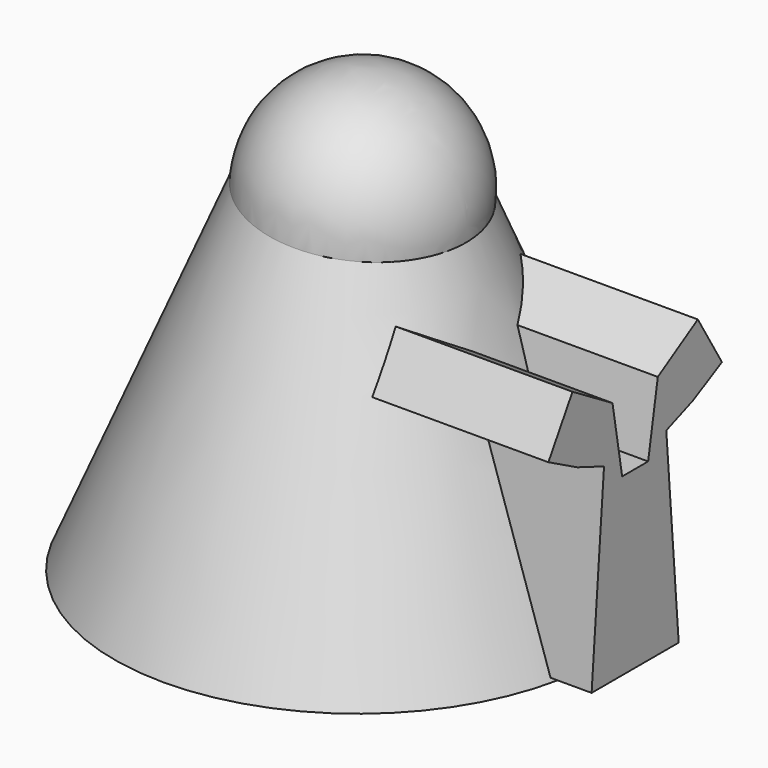
from build123d import *

# Parameters (mm, degrees)
F4_T = -2.5


with BuildPart() as f1:
    # F0 (on Front) → F1 (revolve)
    with BuildSketch(Plane.XZ):
        with BuildLine():
            ThreePointArc((32.4202927587, 23.5130339861), (-9.5793837681, 65.5127105129), (-51.579060295, 23.5130339861))
            Line((-51.579060295, 23.5130339861), (32.4202927587, 23.5130339861))
        make_face()
    revolve(axis=Axis((1.7417054623, 0, 23.5130339861), (1, 0, 0)))

    # F2 (on Front) → F3 (revolve)
    with BuildSketch(Plane.XZ):
        Polygon((-11.5802306682, -112.6956120133), (-11.5802306682, 26.4526642859), (-51.4328964055, 26.4526642859), (-109.681583941, -112.6956120133), align=None)
    revolve(axis=Axis((-11.5802306682, 0, -22.7773860097), (0, 0, -1)))

    # F4
    f4_openings = [f1.faces().sort_by_distance(p)[0] for p in [
        (-11.580231, 0, -112.695612),
    ]]
    offset(amount=F4_T, openings=f4_openings, kind=Kind.INTERSECTION)

    # F6 (on offset) → F7 (join, up to the next surface of F1)
    with BuildSketch(Plane.YZ.offset(100)):
        Polygon((43.8527846002, -20.5623030921), (31.7161967759, -0.4996404972), (11.5647516543, -12.6899358952), (6.7012720683, -40.6980113115), (0.1556711213, -40.6980113115), (-6.3899298257, -40.6980113115), (-11.2534094117, -12.6899358952), (-31.4048545333, -0.4996404972), (-43.5414423575, -20.5623030921), (-29.0120014979, -28.2718026068), (-15.5202871088, -33.4303977157), (-21.773227875, -111.2250647365), (22.0845701176, -111.2250647365), (15.8316293515, -33.4303977157), (29.3233437405, -28.2718026068), align=None)
    extrude(until=Until.NEXT, dir=(-1, 0, 0))


solid = f1.part
